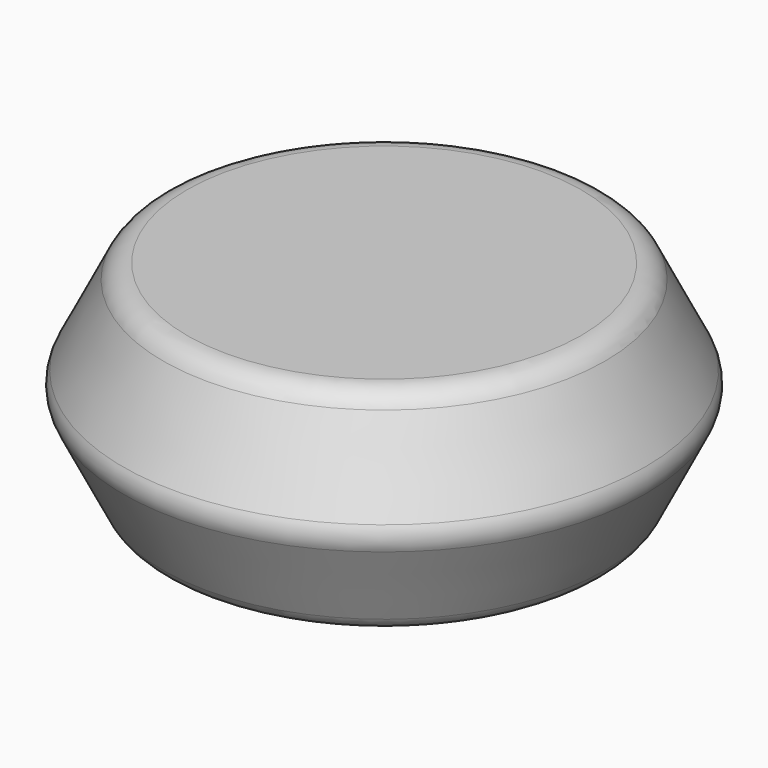
from build123d import *


with BuildPart() as f1:
    # F0 (on Front) → F1 (revolve)
    with BuildSketch(Plane.XZ):
        with BuildLine():
            Line((496.640775, 22.718451), (420.440775, 175.118451))
            ThreePointArc((420.440775, 175.118451), (401.711014, 195.613061), (375.003874, 203.2))
            Line((375.003874, 203.2), (0, 203.2))
            Line((0, 203.2), (0, 200.4695))
            Line((0, 200.4695), (373.316332, 200.4695))
            ThreePointArc((373.316332, 200.4695), (400.023472, 192.882561), (418.753233, 172.387951))
            Line((418.753233, 172.387951), (494.198541, 21.497334))
            ThreePointArc((494.198541, 21.497334), (499.273373, 0), (494.198541, -21.497334))
            Line((494.198541, -21.497334), (417.998541, -173.897334))
            ThreePointArc((417.998541, -173.897334), (400.275505, -193.290359), (375.003873, -200.4695))
            Line((375.003873, -200.4695), (375.003873, -203.2))
            ThreePointArc((375.003873, -203.2), (401.711013, -195.613061), (420.440774, -175.118451))
            Line((420.440774, -175.118451), (496.640775, -22.718451))
            ThreePointArc((496.640775, -22.718451), (502.003873, 0), (496.640775, 22.718451))
        make_face()
    revolve(axis=Axis((0, 0, 0), (0, 0, -1)))


solid = f1.part
